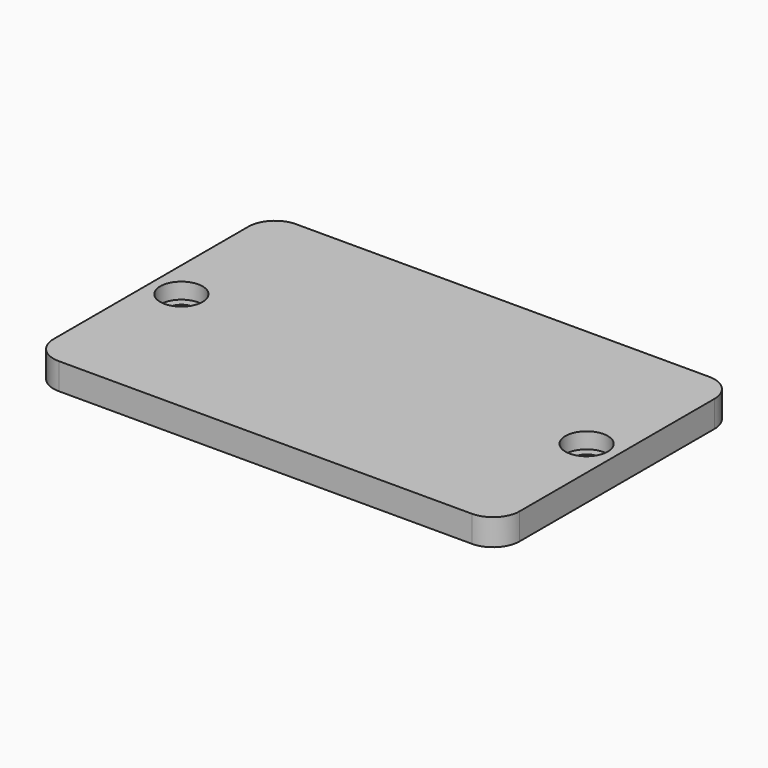
from build123d import *

# Parameters (mm, degrees)
SKETCH_R     = 2.4
PAD_DEPTH    = 5
SKETCH001_R  = 4
POCKET_DEPTH = 3


with BuildPart() as part:
    # Sketch → Pad (new body)
    with BuildSketch(Plane.XY):
        with BuildLine():
            Line((-39, 28), (39, 28))
            ThreePointArc((44, 23), (42.535534, 26.535534), (39, 28))
            Line((44, 23), (44, -23))
            ThreePointArc((39, -28), (42.535534, -26.535534), (44, -23))
            Line((39, -28), (-39, -28))
            ThreePointArc((-44, -23), (-42.535534, -26.535534), (-39, -28))
            Line((-44, -23), (-44, 23))
            ThreePointArc((-39, 28), (-42.535534, 26.535534), (-44, 23))
        make_face()
        with Locations((-38.25, 0)):
            Circle(SKETCH_R, mode=Mode.SUBTRACT)
        with Locations((38.25, 0)):
            Circle(SKETCH_R, mode=Mode.SUBTRACT)
    extrude(amount=PAD_DEPTH)

    # Sketch001 (on Face12 of Pad) → Pocket (cut)
    with BuildSketch(Plane.XY.offset(5)):
        with Locations((-38.25, 0)):
            Circle(SKETCH001_R)
        with Locations((38.25, 0)):
            Circle(SKETCH001_R)
    extrude(amount=-POCKET_DEPTH, mode=Mode.SUBTRACT)


solid = part.part
